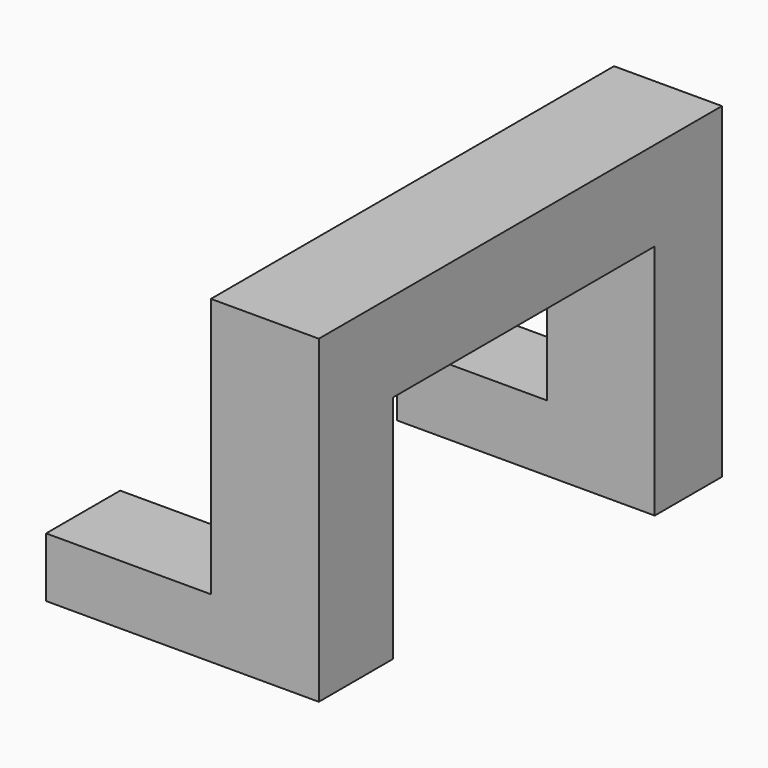
from build123d import *

# Parameters (mm, degrees)
F1_DEPTH = 18.288
F2_W     = 14.2342057079
F2_H     = 11.2496130168
F3_DEPTH = 25.4
F4_W     = 12.39753142
F4_H     = 10.101692751
F5_DEPTH = 27.94
F6_DEPTH = 3.302


with BuildPart() as f1:
    # F0 (on Right) → F1 (new body)
    with BuildSketch(Plane.YZ):
        Polygon((-44.8836572468, 44.0801158547), (-44.8836572468, -10.101692751), (-32.4861258268, -10.101692751), (-32.4861258268, 28.9275757968), (26.2873601168, 28.9275757968), (26.2873601168, -11.2496130168), (40.5215658247, -11.2496130168), (40.5215658247, 44.0801158547), align=None)
    extrude(amount=-F1_DEPTH)

    # F2 (on face) → F3 (join)
    with BuildSketch(Plane(origin=(-18.288, 0, 0), x_dir=(0, -1, 0), z_dir=(-1, 0, 0))):
        with Locations((-33.4044629708, -5.6248065084)):
            Rectangle(F2_W, F2_H)
    extrude(amount=F3_DEPTH)

    # F4 (on face) → F5 (join)
    with BuildSketch(Plane(origin=(-18.288, 0, 0), x_dir=(0, -1, 0), z_dir=(-1, 0, 0))):
        with Locations((38.6848915368, -5.0508463755)):
            Rectangle(F4_W, F4_H)
    extrude(amount=F5_DEPTH)

    # F6 (add): a face of the model
    f6_faces = [f1.faces().sort_by_distance(p)[0] for p in [
        (-15.6938687201, -32.4861258268, 5.3143038172),
    ]]
    extrude(f6_faces, amount=F6_DEPTH)


solid = f1.part
